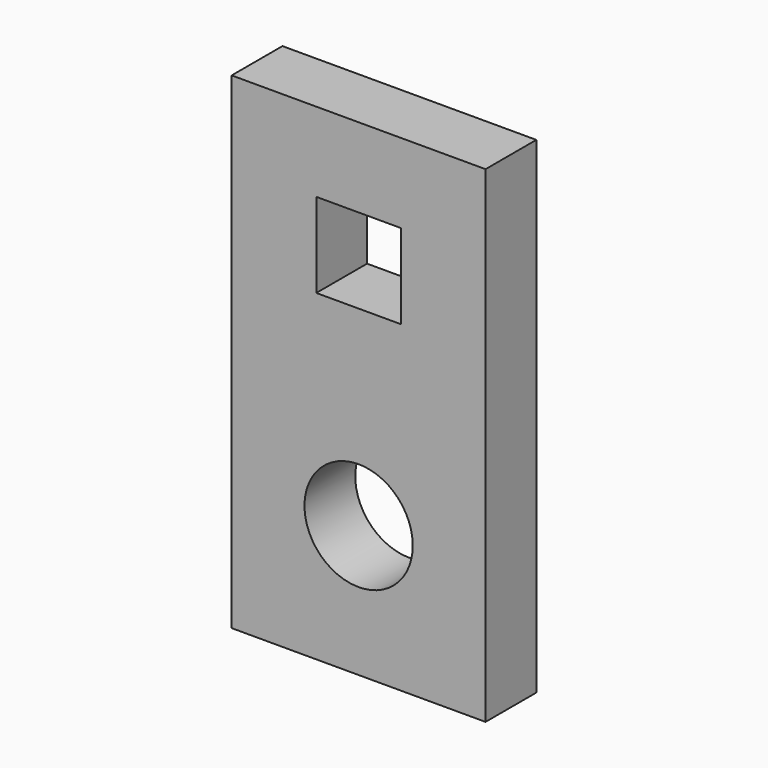
from build123d import *

# Parameters (mm, degrees)
F0_W     = 76.2
F0_H     = 75.435378
F0_R     = 16.244166
F0_H_2   = 70.614622
F0_W_2   = 25.4
F0_H_3   = 25.4
F1_DEPTH = 19.05


with BuildPart() as f1:
    # F0 (on Front) → F1 (new body)
    with BuildSketch(Plane.XZ):
        with Locations((-38.1, 37.717689)):
            Rectangle(F0_W, F0_H)
        with Locations((-38.1, 39.470069)):
            Circle(F0_R, mode=Mode.SUBTRACT)
        with Locations((-38.1, 110.742689)):
            Rectangle(F0_W, F0_H_2)
        with Locations((-38.1, 109.5248)):
            Rectangle(F0_W_2, F0_H_3, mode=Mode.SUBTRACT)
    extrude(amount=F1_DEPTH)


solid = f1.part
